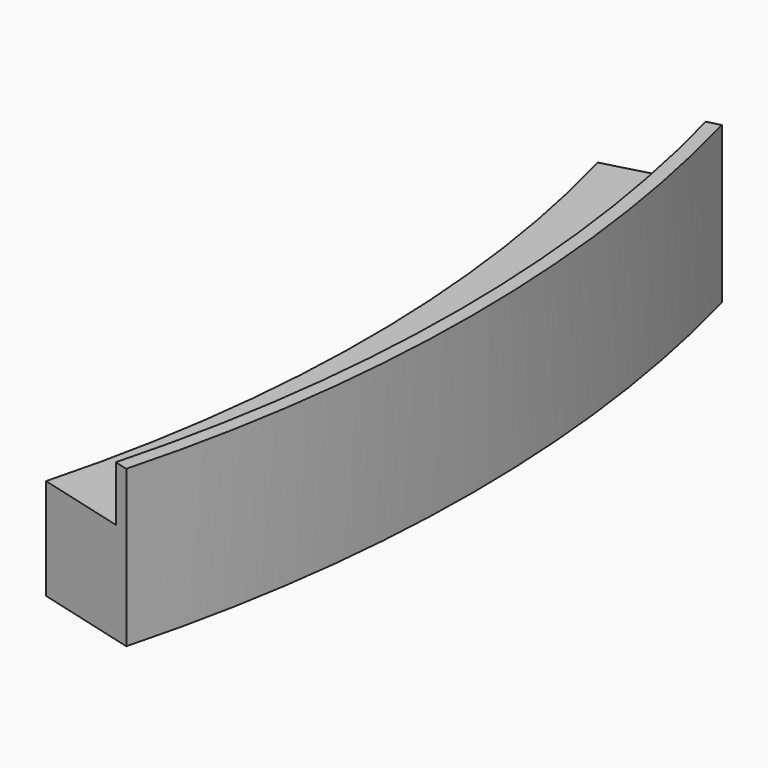
from build123d import *

# Parameters (mm, degrees)
F0_R     = 156.5
F0_R_2   = 155
F2_DEPTH = 17
F1_R     = 156.5
F1_R_2   = 2
F1_R_3   = 145
F3_DEPTH = 11
F5_DEPTH = 25


with BuildPart() as f2:
    # F0 (on Top) → F2 (new body)
    with BuildSketch(Plane.XY):
        Circle(F0_R)
        Circle(F0_R_2, mode=Mode.SUBTRACT)
    extrude(amount=F2_DEPTH)

    # F1 (on face) → F3 (join)
    with BuildSketch(Plane.XY):
        Circle(F1_R)
        with Locations((-75.380214, -130.56236)):
            Circle(F1_R_2, mode=Mode.SUBTRACT)
        with Locations((-130.56236, -75.380214)):
            Circle(F1_R_2, mode=Mode.SUBTRACT)
        with Locations((0, -150.760427)):
            Circle(F1_R_2, mode=Mode.SUBTRACT)
        with Locations((75.380214, -130.56236)):
            Circle(F1_R_2, mode=Mode.SUBTRACT)
        with Locations((130.56236, -75.380214)):
            Circle(F1_R_2, mode=Mode.SUBTRACT)
        with Locations((-150.760427, 0)):
            Circle(F1_R_2, mode=Mode.SUBTRACT)
        with Locations((-130.56236, 75.380214)):
            Circle(F1_R_2, mode=Mode.SUBTRACT)
        with Locations((-75.380214, 130.56236)):
            Circle(F1_R_2, mode=Mode.SUBTRACT)
        Circle(F1_R_3, mode=Mode.SUBTRACT)
        with Locations((150.760427, 0)):
            Circle(F1_R_2, mode=Mode.SUBTRACT)
        with Locations((130.56236, 75.380214)):
            Circle(F1_R_2, mode=Mode.SUBTRACT)
        with Locations((0, 150.760427)):
            Circle(F1_R_2, mode=Mode.SUBTRACT)
        with Locations((75.380214, 130.56236)):
            Circle(F1_R_2, mode=Mode.SUBTRACT)
    extrude(amount=F3_DEPTH)

    # F4 (on Top) → F5 (intersect)
    with BuildSketch(Plane.XY):
        Polygon((186.290355, 49.91635), (0, 0), (186.290355, -49.91635), align=None)
    extrude(amount=F5_DEPTH, mode=Mode.INTERSECT)


solid = f2.part
